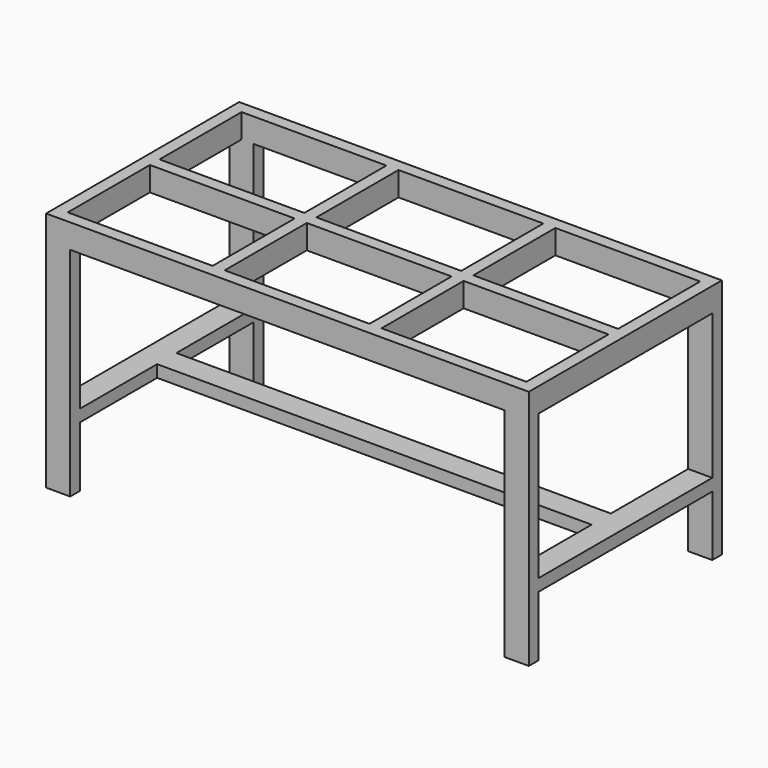
from build123d import *

# Parameters (mm, degrees)
F0_W     = 2000
F0_H     = 1000
F1_DEPTH = 100
F2_W     = 600
F2_H     = 425
F3_DEPTH = 640
F4_W     = 100
F4_H     = 50
F5_DEPTH = 1000
F6_W     = 100
F6_H     = 50
F7_DEPTH = 1000
F8_W     = 100
F8_H     = 50
F9_DEPTH = 2000


with BuildPart() as f1:
    # F0 (on Top) → F1 (new body)
    with BuildSketch(Plane.XY):
        with Locations((10.600965, 127.579693)):
            Rectangle(F0_W, F0_H)
    extrude(amount=F1_DEPTH)

    # F2 (on face) → F3 (cut)
    with BuildSketch(Plane.XY.offset(100)):
        with Locations((-639.399035, 365.079693)):
            Rectangle(F2_W, F2_H)
        with Locations((-639.399035, -109.920307)):
            Rectangle(F2_W, F2_H)
        with Locations((10.600965, 365.079693)):
            Rectangle(F2_W, F2_H)
        with Locations((660.600965, 365.079693)):
            Rectangle(F2_W, F2_H)
        with Locations((10.600965, -109.920307)):
            Rectangle(F2_W, F2_H)
        with Locations((660.600965, -109.920307)):
            Rectangle(F2_W, F2_H)
    extrude(amount=-F3_DEPTH, mode=Mode.SUBTRACT)

    # F4 (on face) → F5 (join)
    with BuildSketch(Plane.XY.offset(100)):
        with Locations((960.600965, 602.579693)):
            Rectangle(F4_W, F4_H)
        with Locations((-939.399035, -347.420307)):
            Rectangle(F4_W, F4_H)
        with Locations((-939.399035, 602.579693)):
            Rectangle(F4_W, F4_H)
        with Locations((960.600965, -347.420307)):
            Rectangle(F4_W, F4_H)
    extrude(amount=-F5_DEPTH)

    # F6 (on face) → F7 (join)
    with BuildSketch(Plane.XZ.offset(372.420307)):
        with Locations((-939.399035, -625)):
            Rectangle(F6_W, F6_H)
        with Locations((960.600965, -625)):
            Rectangle(F6_W, F6_H)
    extrude(amount=-F7_DEPTH)

    # F8 (on face) → F9 (join)
    with BuildSketch(Plane.YZ.offset(1010.600965)):
        with Locations((127.579693, -625)):
            Rectangle(F8_W, F8_H)
    extrude(amount=-F9_DEPTH)


solid = f1.part
